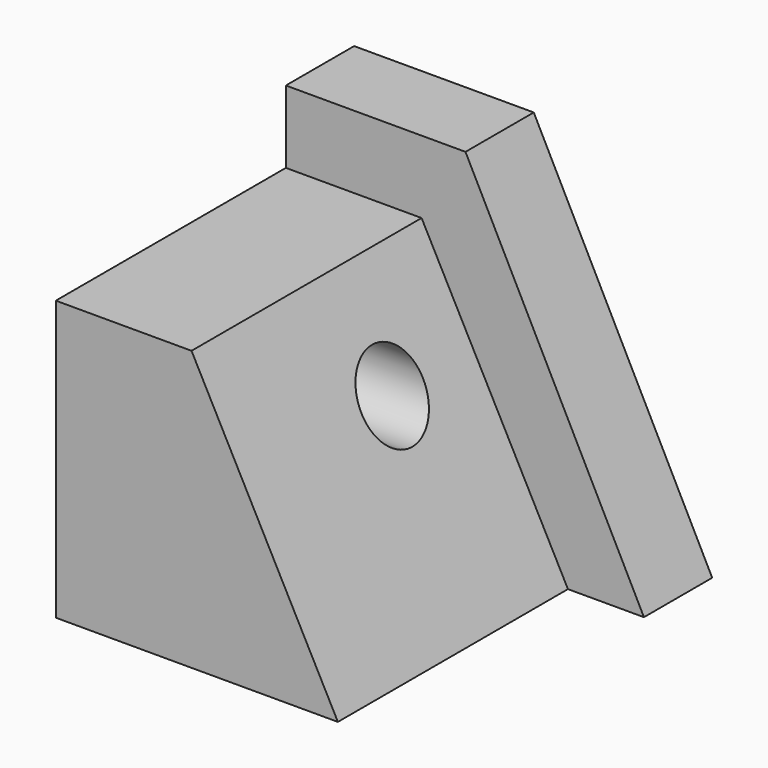
from build123d import *

# Parameters (mm, degrees)
F1_DEPTH = 85.598
F3_DEPTH = 25.4
F4_R     = 11.425588
F5_DEPTH = 83.969714


with BuildPart() as f1:
    # F0 (on Front) → F1 (new body)
    with BuildSketch(Plane.XZ):
        Polygon((-83.968714, 0), (0, 0), (-43.566376, 83.084151), (-83.968714, 83.084151), align=None)
    extrude(amount=F1_DEPTH)

    # F2 (on face) → F3 (join)
    with BuildSketch(Plane(origin=(0, 0, 0), x_dir=(-1, 0, 0), z_dir=(0, 1, 0))):
        Polygon((-22.619896, 0), (83.968714, 0), (83.968714, 104.670398), (30.496623, 104.670398), align=None)
    extrude(amount=F3_DEPTH)

    # F4 (on Right) → F5 (cut, through all)
    with BuildSketch(Plane.YZ):
        with Locations((-30.146739, 53.763162)):
            Circle(F4_R)
    extrude(amount=-F5_DEPTH, mode=Mode.SUBTRACT)


solid = f1.part
